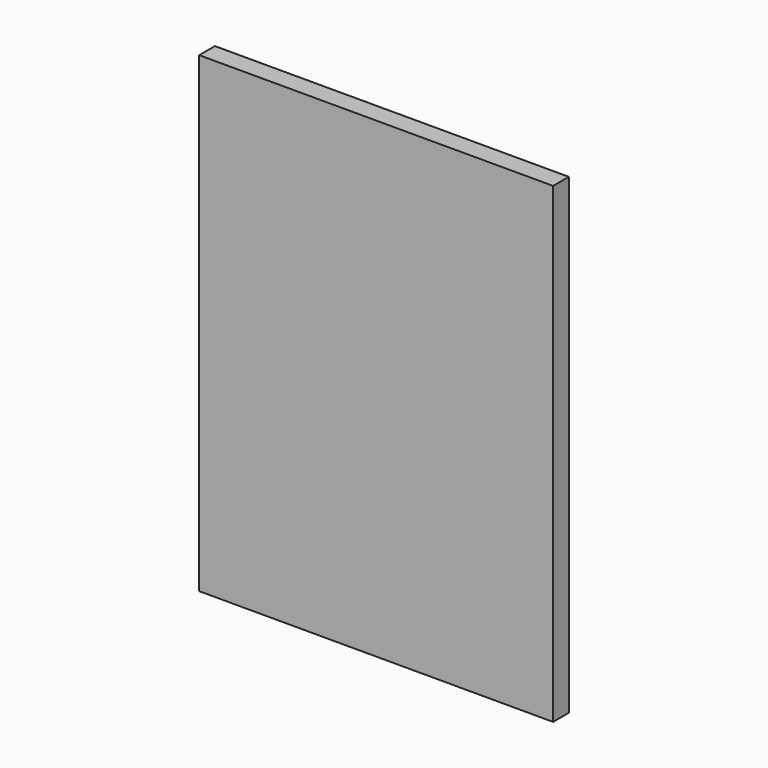
from build123d import *

# Parameters (mm, degrees)
F0_W     = 90
F0_H     = 120
F1_DEPTH = 5
F3_DEPTH = 5
F4_R     = 30
F4_R_2   = 3
F5_DEPTH = 5


with BuildPart() as f1:
    # F0 (on Front) → F1 (new body)
    with BuildSketch(Plane.XZ):
        with Locations((45, 60)):
            Rectangle(F0_W, F0_H)
    extrude(amount=F1_DEPTH)

    # F2 (on face) → F3 (join)
    with BuildSketch(Plane(origin=(0, 0, 0), x_dir=(-1, 0, 0), z_dir=(0, 1, 0))):
        with BuildLine():
            Line((-85, 15), (-63, 5))
            Line((-63, 5), (-27, 5))
            ThreePointArc((-27, 5), (-24.744746, 24.619221), (-5, 25))
            Line((-5, 25), (-5, 95))
            ThreePointArc((-5, 95), (-24.744746, 95.380779), (-27, 115))
            Line((-27, 115), (-70, 115))
            ThreePointArc((-70, 115), (-80.606602, 110.606602), (-85, 100))
            Line((-85, 100), (-85, 15))
        make_face()
    extrude(amount=F3_DEPTH)

    # F4 (on face) → F5 (join)
    with BuildSketch(Plane(origin=(0, 5, 0), x_dir=(-1, 0, 0), z_dir=(0, 1, 0))):
        with Locations((-45, 60)):
            Circle(F4_R)
        with Locations((-59.3, 46.017511)):
            Circle(F4_R_2, mode=Mode.SUBTRACT)
        with Locations((-45, 40)):
            Circle(F4_R_2, mode=Mode.SUBTRACT)
        with Locations((-30.7, 46.017511)):
            Circle(F4_R_2, mode=Mode.SUBTRACT)
        with Locations((-65, 60)):
            Circle(F4_R_2, mode=Mode.SUBTRACT)
        with Locations((-59.3, 73.982489)):
            Circle(F4_R_2, mode=Mode.SUBTRACT)
        with Locations((-45, 80)):
            Circle(F4_R_2, mode=Mode.SUBTRACT)
        with Locations((-30.7, 73.982489)):
            Circle(F4_R_2, mode=Mode.SUBTRACT)
        with Locations((-25, 60)):
            Circle(F4_R_2, mode=Mode.SUBTRACT)
    extrude(amount=F5_DEPTH)


solid = f1.part
